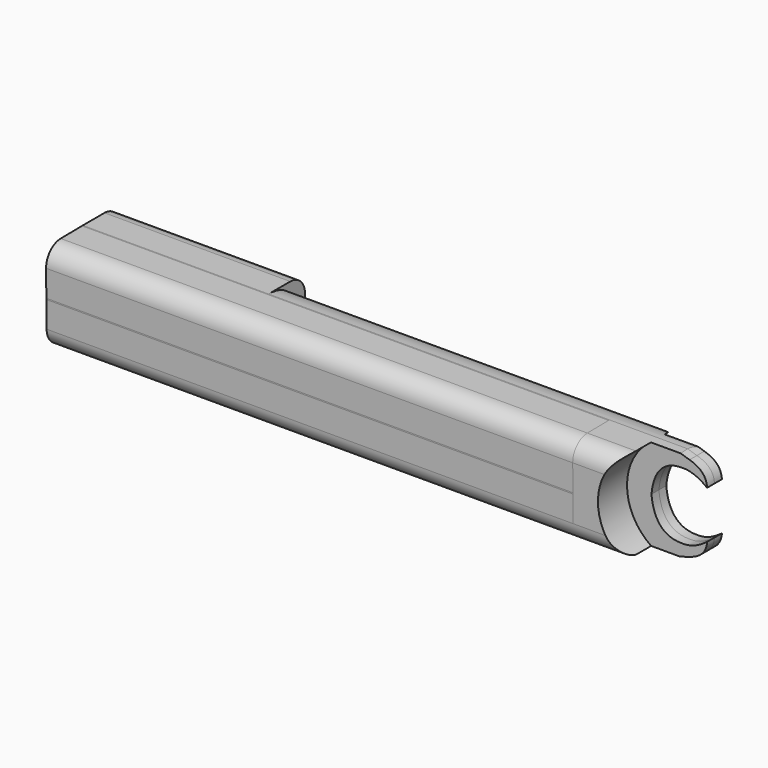
from build123d import *

# Parameters (mm, degrees)
F1_DEPTH = 30.12
F3_DEPTH = 55.26
F6_DEPTH = 7.5
F8_DEPTH = 1.5
F9_DEPTH = 13.7
F10_R    = 3


with BuildPart() as f1:
    # F0 (on Right) → F1 (new body)
    with BuildSketch(Plane.YZ):
        with BuildLine():
            ThreePointArc((0, -7.395), (5.2290546469, -5.2290546469), (7.395, 0))
            ThreePointArc((7.395, 0), (5.2290546469, 5.2290546469), (0, 7.395))
            Line((0, 7.395), (-0.1808295417, 7.3927887618))
            ThreePointArc((-0.1808295417, 7.3927887618), (-5.2926014143, 5.1647260595), (-7.395, 0))
            Line((-7.395, 0), (-7.3927887618, -0.1808295417))
            ThreePointArc((-7.3927887618, -0.1808295417), (-5.1647260595, -5.2926014143), (0, -7.395))
        make_face()
        Polygon((-4.2, 1.7), (-4.2, 4.5), (4.2, 4.5), (4.2, -4.5), (-4.2, -4.5), (-4.2, -1.7), (-6.1, -1.7), (-6.1, 1.7), align=None, mode=Mode.SUBTRACT)
        with BuildLine():
            Line((-7.3045717093, -7.395), (0, -7.395))
            ThreePointArc((0, -7.395), (-5.1647260595, -5.2926014143), (-7.3927887618, -0.1808295417))
            Line((-7.3927887618, -0.1808295417), (-7.3045717093, -7.395))
        make_face()
        with BuildLine():
            ThreePointArc((-7.395, 0), (-5.2926014143, 5.1647260595), (-0.1808295417, 7.3927887618))
            Line((-0.1808295417, 7.3927887618), (-7.4843091518, 7.3034796101))
            Line((-7.4843091518, 7.3034796101), (-7.395, 0))
        make_face()
        with BuildLine():
            Line((7.395, -7.395), (7.395, 0))
            ThreePointArc((7.395, 0), (5.2290546469, -5.2290546469), (0, -7.395))
            Line((0, -7.395), (7.395, -7.395))
        make_face()
        with BuildLine():
            ThreePointArc((0, 7.395), (5.2290546469, 5.2290546469), (7.395, 0))
            Line((7.395, 0), (7.395, 7.395))
            Line((7.395, 7.395), (0, 7.395))
        make_face()
    extrude(amount=F1_DEPTH)

    # F2 (on face) → F3 (join)
    with BuildSketch(Plane.YZ.offset(30.12)):
        with BuildLine():
            ThreePointArc((-7.395, 0), (-5.2926014143, 5.1647260595), (-0.1808295417, 7.3927887618))
            Line((-0.1808295417, 7.3927887618), (-7.4843091518, 7.3034796101))
            Line((-7.4843091518, 7.3034796101), (-7.395, 0))
        make_face()
        with BuildLine():
            Line((2.9646117869, 4.5), (2.9646117869, 6.7747399916))
            ThreePointArc((2.9646117869, 6.7747399916), (1.5144013277, 7.2382742155), (0, 7.395))
            Line((0, 7.395), (-0.1808295417, 7.3927887618))
            ThreePointArc((-0.1808295417, 7.3927887618), (-5.2926014143, 5.1647260595), (-7.395, 0))
            Line((-7.395, 0), (-7.3927887618, -0.1808295417))
            ThreePointArc((-7.3927887618, -0.1808295417), (-5.1647260595, -5.2926014143), (0, -7.395))
            ThreePointArc((0, -7.395), (1.5144013277, -7.2382742155), (2.9646117869, -6.7747399916))
            Line((2.9646117869, -6.7747399916), (2.9646117869, -4.5))
            Line((2.9646117869, -4.5), (-4.2, -4.5))
            Line((-4.2, -4.5), (-6.1, -1.7))
            Line((-6.1, -1.7), (-6.1, 1.7))
            Line((-6.1, 1.7), (-4.2, 4.5))
            Line((-4.2, 4.5), (2.9646117869, 4.5))
        make_face()
        with BuildLine():
            Line((-7.3045717093, -7.395), (0, -7.395))
            ThreePointArc((0, -7.395), (-5.1647260595, -5.2926014143), (-7.3927887618, -0.1808295417))
            Line((-7.3927887618, -0.1808295417), (-7.3045717093, -7.395))
        make_face()
    extrude(amount=F3_DEPTH)

    # F5 (on Front) → F6 (join, symmetric)
    with BuildSketch(Plane.XZ):
        with BuildLine():
            Line((93.34, 7.395), (85.38, 7.395))
            Line((85.38, 7.395), (85.38, -7.395))
            Line((85.38, -7.395), (93.34, -7.395))
            ThreePointArc((93.34, -7.395), (89.43, 0), (93.34, 7.395))
        make_face()
    extrude(amount=F6_DEPTH, both=True)

    # F7 (on Front) → F8 (join, symmetric)
    with BuildSketch(Plane.XZ):
        with BuildLine():
            add(Edge.make_bspline(
                [(99.5611976313, -6.9222719045), (97.6347457755, -7.5906937073), (93.8964104218, -8.4654582573), (90.4010751726, -7.8833055428), (88.7074694037, -7.395)],
                knots=[0, 0, 0, 0, 0.5144212355, 1, 1, 1, 1], degree=3))
            add(Edge.make_bspline(
                [(99.5611976313, -6.9222719045), (97.217178841, -7.58868722), (94.1584374095, -7.2106656851), (93.34, -7.395)],
                knots=[3.9877929831, 3.9877929831, 3.9877929831, 3.9877929831, 9.8433615853, 9.8433615853, 9.8433615853, 9.8433615853], degree=3))
            Line((93.34, -7.395), (88.7074694037, -7.395))
        make_face()
        with BuildLine():
            add(Edge.make_bspline(
                [(99.5611976313, -6.9222719045), (97.217178841, -7.58868722), (94.1584374095, -7.2106656851), (93.34, -7.395)],
                knots=[3.9877929831, 3.9877929831, 3.9877929831, 3.9877929831, 9.8433615853, 9.8433615853, 9.8433615853, 9.8433615853], degree=3))
            add(Edge.make_bspline(
                [(102.4147021825, -3.8559928472), (102.3072303482, -5.6141000369), (101.0852953963, -6.488963905), (99.5611976313, -6.9222719045)],
                knots=[0.1804604412, 0.1804604412, 0.1804604412, 0.1804604412, 3.9877929831, 3.9877929831, 3.9877929831, 3.9877929831], degree=3))
            add(Edge.make_bspline(
                [(102.4147021825, -3.8559928472), (101.0774964274, -4.8978899586), (99.4699665658, -5.3518592672), (98.3198470269, -5.449623214), (93.894019065, -5.2308255551), (93.3923863769, 0)],
                knots=[0.0006270435, 0.0006270435, 0.0006270435, 0.0006270435, 0.3281259648, 0.5118184212, 1, 1, 1, 1], degree=3))
            add(Edge.make_bspline(
                [(102.4147021825, 3.8559928472), (101.0774964274, 4.8978899586), (99.4699665658, 5.3518592672), (98.3198470269, 5.449623214), (93.894019065, 5.2308255551), (93.3923863769, 0)],
                knots=[0.0006270435, 0.0006270435, 0.0006270435, 0.0006270435, 0.3281259648, 0.5118184212, 1, 1, 1, 1], degree=3))
            add(Edge.make_bspline(
                [(102.4147021825, 3.8559928472), (102.3072303482, 5.6141000369), (101.0852953963, 6.488963905), (99.5611976313, 6.9222719045)],
                knots=[0.1804604412, 0.1804604412, 0.1804604412, 0.1804604412, 3.9877929831, 3.9877929831, 3.9877929831, 3.9877929831], degree=3))
            add(Edge.make_bspline(
                [(99.5611976313, 6.9222719045), (97.217178841, 7.58868722), (94.1584374095, 7.2106656851), (93.34, 7.395)],
                knots=[3.9877929831, 3.9877929831, 3.9877929831, 3.9877929831, 9.8433615853, 9.8433615853, 9.8433615853, 9.8433615853], degree=3))
            ThreePointArc((93.34, 7.395), (89.43, 0), (93.34, -7.395))
        make_face()
        with BuildLine():
            Line((88.7074694037, 7.395), (93.34, 7.395))
            add(Edge.make_bspline(
                [(99.5611976313, 6.9222719045), (97.217178841, 7.58868722), (94.1584374095, 7.2106656851), (93.34, 7.395)],
                knots=[3.9877929831, 3.9877929831, 3.9877929831, 3.9877929831, 9.8433615853, 9.8433615853, 9.8433615853, 9.8433615853], degree=3))
            add(Edge.make_bspline(
                [(99.5611976313, 6.9222719045), (97.6347457755, 7.5906937073), (93.8964104218, 8.4654582573), (90.4010751726, 7.8833055428), (88.7074694037, 7.395)],
                knots=[0, 0, 0, 0, 0.5144212355, 1, 1, 1, 1], degree=3))
        make_face()
    extrude(amount=F8_DEPTH, both=True)

    # F4 (on face) → F9 (cut)
    with BuildSketch(Plane.YZ.offset(85.38)):
        with BuildLine():
            Line((-8.1289913505, 8.4002688527), (-8.1289913505, -8.4002688527))
            Line((-8.1289913505, -8.4002688527), (2.9646117869, -8.4002688527))
            Line((2.9646117869, -8.4002688527), (2.9646117869, -6.7747399916))
            ThreePointArc((2.9646117869, -6.7747399916), (1.5144013277, -7.2382742155), (0, -7.395))
            Line((0, -7.395), (-7.3045717093, -7.395))
            Line((-7.3045717093, -7.395), (-7.4843091518, 7.3034796101))
            Line((-7.4843091518, 7.3034796101), (0, 7.395))
            ThreePointArc((0, 7.395), (1.5144013277, 7.2382742155), (2.9646117869, 6.7747399916))
            Line((2.9646117869, 6.7747399916), (2.9646117869, 8.4002688527))
            Line((2.9646117869, 8.4002688527), (-8.1289913505, 8.4002688527))
        make_face()
        Polygon((2.9646117869, -6.7747399916), (2.9646117869, -8.4002688527), (8.1289913505, -8.4002688527), (8.1289913505, 8.4002688527), (2.9646117869, 8.4002688527), (2.9646117869, 6.7747399916), (2.9646117869, 4.5), (2.9646117869, -4.5), align=None)
    extrude(amount=F9_DEPTH, mode=Mode.SUBTRACT)

    # F10
    f10_edges = [f1.edges().sort_by_distance(p)[0] for p in [
        (46.67, -7.304572, -7.395),
        (15.06, 7.395, 7.395),
        (15.06, 7.395, -7.395),
        (46.60411, -7.484309, 7.30348),
    ]]
    fillet(f10_edges, radius=F10_R)


solid = f1.part
